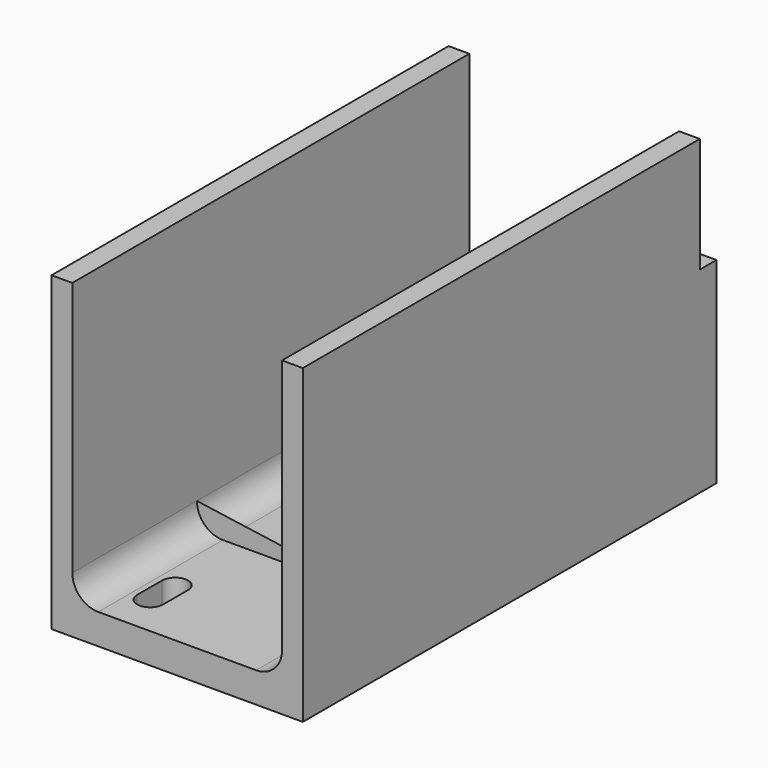
from build123d import *

# Parameters (mm, degrees)
F2_DEPTH = 38.1
F3_DEPTH = 83.312
F5_DEPTH = 25.4
F7_DEPTH = 5.08
F9_D     = 5.08
F10_R    = 5.08


with BuildPart() as f2:
    # F1 (on Front) → F2 (new body)
    with BuildSketch(Plane.XZ):
        with BuildLine():
            Line((-64.719244, 37.963711), (-64.719244, 100.398147))
            Line((-64.719244, 100.398147), (-69.799244, 100.398147))
            Line((-69.799244, 100.398147), (-69.799244, 24.198147))
            Line((-69.799244, 24.198147), (-8.331244, 24.198147))
            Line((-8.331244, 24.198147), (-8.331244, 100.398147))
            Line((-8.331244, 100.398147), (-13.411244, 100.398147))
            Line((-13.411244, 100.398147), (-13.411244, 37.963711))
            ThreePointArc((-13.411244, 37.963711), (-15.271116, 33.473583), (-19.761244, 31.613711))
            Line((-19.761244, 31.613711), (-58.369244, 31.613711))
            ThreePointArc((-58.369244, 31.613711), (-62.859372, 33.473583), (-64.719244, 37.963711))
        make_face()
    extrude(amount=F2_DEPTH)

    # F2_face (on face) → F3 (join)
    with BuildSketch(Plane(origin=(-39.065244, 0, 50.700669), x_dir=(1, 0, 0), z_dir=(0, 1, 0))):
        with BuildLine():
            Line((30.734, -49.697478), (30.734, 26.502522))
            Line((30.734, 26.502522), (-30.734, 26.502522))
            Line((-30.734, 26.502522), (-30.734, -49.697478))
            Line((-30.734, -49.697478), (-25.654, -49.697478))
            Line((-25.654, -49.697478), (-25.654, 12.736957))
            ThreePointArc((-25.654, 12.736957), (-23.794128, 17.227085), (-19.304, 19.086957))
            Line((-19.304, 19.086957), (19.304, 19.086957))
            ThreePointArc((19.304, 19.086957), (23.794128, 17.227085), (25.654, 12.736957))
            Line((25.654, 12.736957), (25.654, -49.697478))
            Line((25.654, -49.697478), (30.734, -49.697478))
        make_face()
    extrude(amount=F3_DEPTH)

    # F4 (on face) → F5 (cut)
    with BuildSketch(Plane(origin=(0, 0, 24.198147), x_dir=(1, 0, 0), z_dir=(0, 0, -1))):
        with BuildLine():
            Line((-50.622244, 20.32), (-50.622244, 27.94))
            ThreePointArc((-50.622244, 27.94), (-53.797244, 31.115), (-56.972244, 27.94))
            Line((-56.972244, 27.94), (-56.972244, 20.32))
            ThreePointArc((-56.972244, 20.32), (-53.797244, 17.145), (-50.622244, 20.32))
        make_face()
    extrude(amount=-F5_DEPTH, mode=Mode.SUBTRACT)

    # F6 (on face) → F7 (join)
    with BuildSketch(Plane(origin=(0, 83.312, 0), x_dir=(-1, 0, 0), z_dir=(0, 1, 0))):
        with BuildLine():
            Line((21.031244, 72.253711), (8.331244, 72.253711))
            Line((8.331244, 72.253711), (8.331244, 24.198147))
            Line((8.331244, 24.198147), (69.799244, 24.198147))
            Line((69.799244, 24.198147), (69.799244, 54.473711))
            Line((69.799244, 54.473711), (57.099244, 54.473711))
            Line((57.099244, 54.473711), (57.099244, 34.153711))
            ThreePointArc((57.099244, 34.153711), (56.355295, 32.35766), (54.559244, 31.613711))
            Line((54.559244, 31.613711), (23.571244, 31.613711))
            ThreePointArc((23.571244, 31.613711), (21.775192, 32.35766), (21.031244, 34.153711))
            Line((21.031244, 34.153711), (21.031244, 72.253711))
        make_face()
    extrude(amount=F7_DEPTH)

    # F9 (through all)
    with Locations(Plane(origin=(0, 0, 24.198147), x_dir=(1, 0, 0), z_dir=(0, 0, -1))):
        with Locations((-33.731244, -50.292)):
            Hole(F9_D / 2)

    # F10
    f10_edges = [f2.edges().sort_by_distance(p)[0] for p in [
        (-57.099244, 85.852, 54.473711),
        (-21.031244, 85.852, 72.253711),
    ]]
    fillet(f10_edges, radius=F10_R)


solid = f2.part
